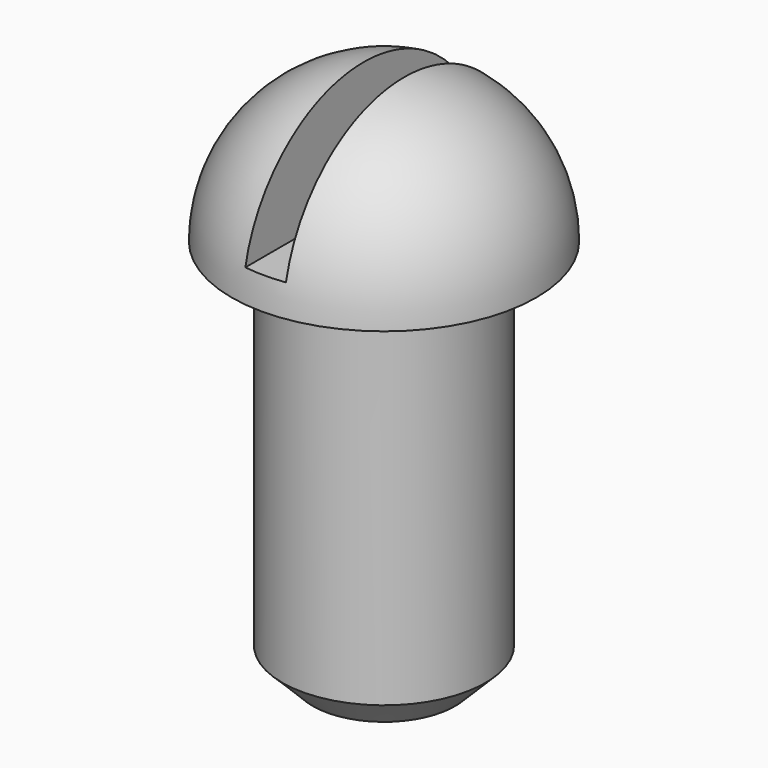
from build123d import *

# Parameters (mm, degrees)
F2_SIZE       = 3
F3_W          = 4
F3_H          = 15.679534703
F4_DEPTH      = 15.001
F4_DEPTH_BACK = 15.001


with BuildPart() as f1:
    # F0 (on Front) → F1 (revolve)
    with BuildSketch(Plane.XZ):
        with BuildLine():
            Line((0, -38), (0, 15))
            ThreePointArc((0, 15), (-10.6066017178, 10.6066017178), (-15, 0))
            Line((-15, 0), (-10, 0))
            Line((-10, 0), (-10, -38))
            Line((-10, -38), (0, -38))
        make_face()
    revolve(axis=Axis((0, 0, -11.5), (0, 0, 1)))

    # F2
    f2_edges = [f1.edges().sort_by_distance(p)[0] for p in [
        (10, 0, -38),
    ]]
    chamfer(f2_edges, length=F2_SIZE)

    # F3 (on Front) → F4 (cut, two sides)
    with BuildSketch(Plane.XZ) as f4_sk:
        with Locations((0, 10.8397673515)):
            Rectangle(F3_W, F3_H)
    extrude(amount=-F4_DEPTH, mode=Mode.SUBTRACT)
    extrude(f4_sk.sketch, amount=F4_DEPTH_BACK, mode=Mode.SUBTRACT)


solid = f1.part
